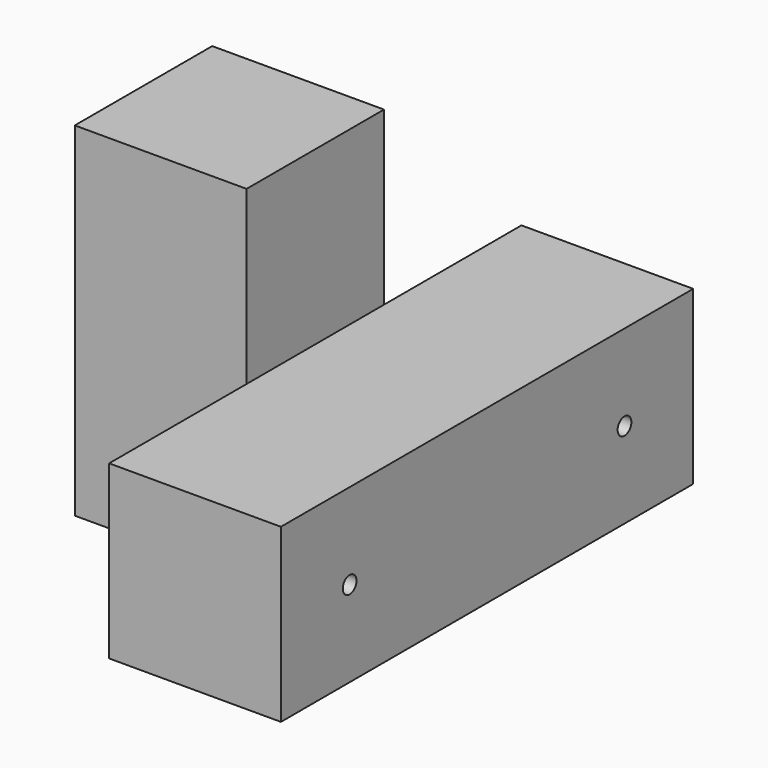
from build123d import *

# Parameters (mm, degrees)
F0_W     = 25.4
F0_H     = 25.4
F1_DEPTH = 25.4
F2_W     = 25.4
F2_H     = 25.4
F3_DEPTH = 25.4
F4_W     = 25.4
F4_H     = 25.4
F5_DEPTH = 25.4
F7_R     = 1.27
F6_R     = 1.27
F8_DEPTH = 25.4


with BuildPart() as f1:
    # F0 (on Front) → F1 (new body)
    with BuildSketch(Plane.XZ):
        Polygon((-50.8, 0), (-25.4, 0), (-25.4, 25.4), (-25.4, 50.8), (-50.8, 50.8), align=None)
        with Locations((-12.7, 12.7)):
            Rectangle(F0_W, F0_H)
    extrude(amount=F1_DEPTH)

    # F2 (on face) → F3 (join)
    with BuildSketch(Plane.XZ.offset(25.4)):
        with Locations((-12.7, 12.7)):
            Rectangle(F2_W, F2_H)
    extrude(amount=F3_DEPTH)

    # F4 (on face) → F5 (join)
    with BuildSketch(Plane(origin=(0, 0, 0), x_dir=(-1, 0, 0), z_dir=(0, 1, 0))):
        with Locations((12.7, 12.7)):
            Rectangle(F4_W, F4_H)
    extrude(amount=F5_DEPTH)

    # F7 (on face) + F6 (on face) → F8 (cut)
    with BuildSketch(Plane(origin=(-25.4, 0, 0), x_dir=(0, -1, 0), z_dir=(-1, 0, 0))):
        with Locations((38.1, 12.7)):
            Circle(F7_R)
    with BuildSketch(Plane(origin=(-25.4, 0, 0), x_dir=(0, -1, 0), z_dir=(-1, 0, 0))):
        with Locations((-12.7, 12.7)):
            Circle(F6_R)
    extrude(amount=-F8_DEPTH, mode=Mode.SUBTRACT)


solid = f1.part
